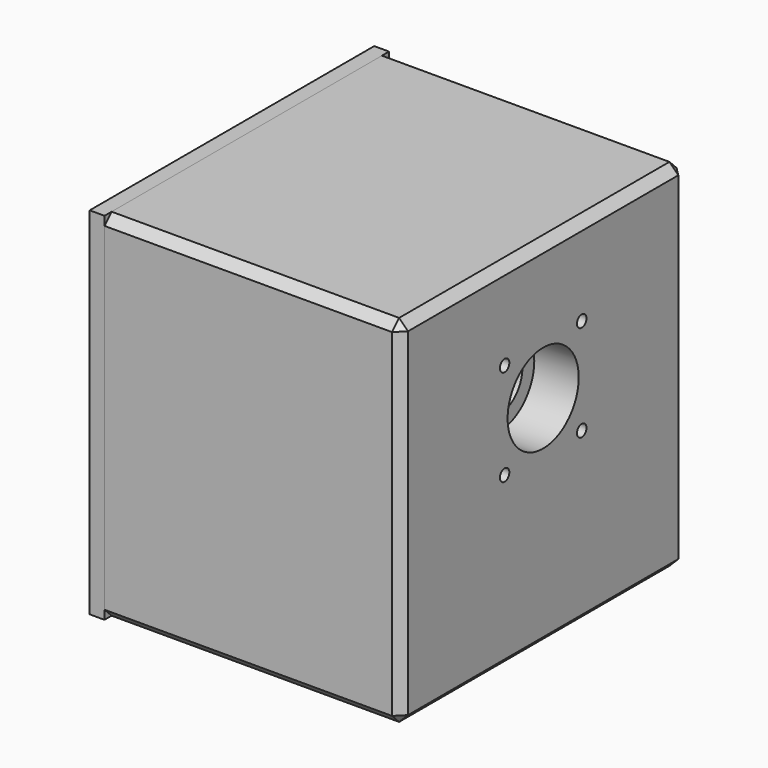
from build123d import *

# Parameters (mm, degrees)
F1_DEPTH  = 50
F2_R      = 7.5
F3_DEPTH  = 7.5
F4_T      = -2.5
F5_DEPTH  = 2.5
F6_R      = 5
F7_DEPTH  = 25
F9_SIZE   = 1.5
F10_DEPTH = 7.5
F11_SIZE  = 5
F12_R     = 2.5
F14_D     = 2
F14_2_D   = 2


with BuildPart() as f1:
    # F0 (on Right) → F1 (new body)
    with BuildSketch(Plane.YZ):
        Polygon((30, 63), (-30, 63), (-30, 3), (0, 3), (30, 3), align=None)
    extrude(amount=F1_DEPTH)

    # F2 (on face) → F3 (cut)
    with BuildSketch(Plane.YZ.offset(50)):
        with Locations((0, 40)):
            Circle(F2_R)
    extrude(amount=-F3_DEPTH, mode=Mode.SUBTRACT)

    # F4
    f4_openings = [f1.faces().sort_by_distance(p)[0] for p in [
        (0, 0, 33),
    ]]
    offset(amount=F4_T, openings=f4_openings, kind=Kind.INTERSECTION)

    # F6 (on face) → F7 (cut)
    with BuildSketch(Plane(origin=(40, 0, 0), x_dir=(0, -1, 0), z_dir=(-1, 0, 0))):
        with Locations((0, 40)):
            Circle(F6_R)
    extrude(amount=-F7_DEPTH, mode=Mode.SUBTRACT)

    # F9
    f9_edges = [f1.edges().sort_by_distance(p)[0] for p in [
        (25, 30, 3),
        (25, 30, 63),
        (25, -30, 3),
        (25, -30, 63),
        (50, 0, 63),
        (50, -30, 33),
        (50, 30, 33),
        (50, 0, 3),
    ]]
    chamfer(f9_edges, length=F9_SIZE)

    # F11
    f11_edges = [f1.edges().sort_by_distance(p)[0] for p in [
        (23.75, 27.5, 5.5),
        (23.75, -27.5, 5.5),
        (23.75, -27.5, 60.5),
        (23.75, 27.5, 60.5),
    ]]
    chamfer(f11_edges, length=F11_SIZE)

    # F14 (through all)
    with Locations(Plane.YZ.offset(50)):
        with Locations((8.1317279836, 48.1317279836), (8.1317279836, 31.8682720164), (-8.1317279836, 31.8682720164), (-8.1317279836, 48.1317279836)):
            Hole(F14_D / 2)


with BuildPart() as f5:
    # F0 (on Right) → F5 (new body)
    with BuildSketch(Plane.YZ):
        Polygon((30, 63), (-30, 63), (-30, 3), (0, 3), (30, 3), align=None)
    extrude(amount=-F5_DEPTH)


with BuildPart() as f10:
    # F8 (on face) → F10 (new body, through all)
    with BuildSketch(Plane(origin=(40, 0, 0), x_dir=(0, -1, 0), z_dir=(-1, 0, 0))):
        with BuildLine():
            ThreePointArc((10, 40), (0, 30), (-10, 40))
            Line((-10, 40), (-10, 20))
            Line((-10, 20), (10, 20))
            Line((10, 20), (10, 40))
        make_face()
    extrude(amount=-F10_DEPTH)

    # F12
    f12_edges = [f10.edges().sort_by_distance(p)[0] for p in [
        (43.75, -10, 20),
        (43.75, 10, 20),
    ]]
    fillet(f12_edges, radius=F12_R)

    # F14#2 (through all)
    with Locations(Plane.YZ.offset(50)):
        with Locations((8.1317279836, 48.1317279836), (8.1317279836, 31.8682720164), (-8.1317279836, 31.8682720164), (-8.1317279836, 48.1317279836)):
            Hole(F14_2_D / 2)


solid = Compound([f1.part, f5.part, f10.part])
